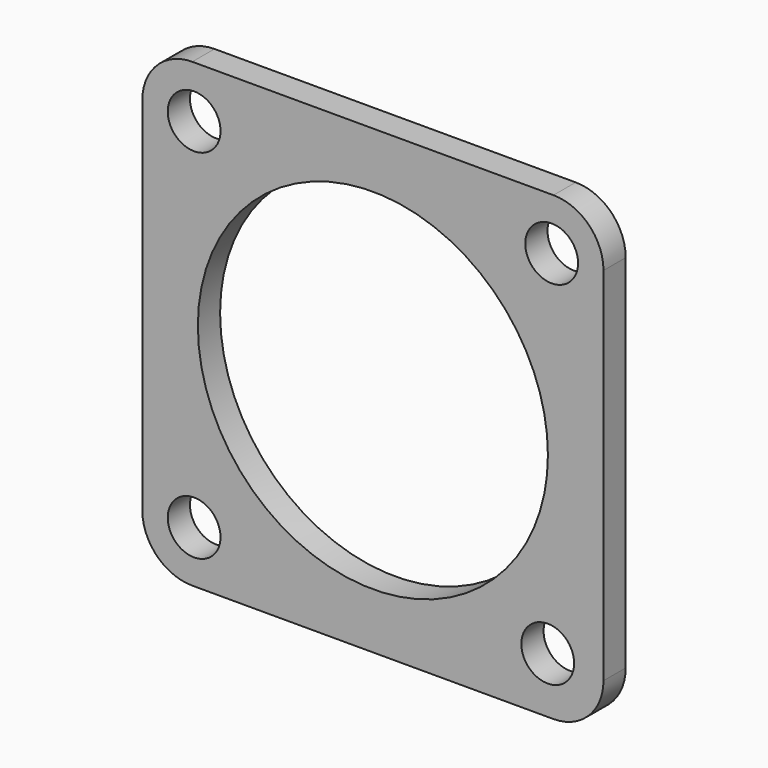
from build123d import *

# Parameters (mm, degrees)
F0_W     = 83
F0_H     = 83
F0_R     = 4.75
F0_R_2   = 31.5
F1_DEPTH = 5
F2_R     = 9


with BuildPart() as f1:
    # F0 (on Front) → F1 (new body)
    with BuildSketch(Plane.XZ):
        Rectangle(F0_W, F0_H)
        with Locations((-32.173359, -32.173359)):
            Circle(F0_R, mode=Mode.SUBTRACT)
        with Locations((31.466252, -31.466252)):
            Circle(F0_R, mode=Mode.SUBTRACT)
        with Locations((-32.173359, 32.173359)):
            Circle(F0_R, mode=Mode.SUBTRACT)
        Circle(F0_R_2, mode=Mode.SUBTRACT)
        with Locations((32.173359, 32.173359)):
            Circle(F0_R, mode=Mode.SUBTRACT)
    extrude(amount=F1_DEPTH)

    # F2
    f2_edges = [f1.edges().sort_by_distance(p)[0] for p in [
        (41.5, -2.5, -41.5),
        (-41.5, -2.5, -41.5),
        (41.5, -2.5, 41.5),
        (-41.5, -2.5, 41.5),
    ]]
    fillet(f2_edges, radius=F2_R)


solid = f1.part
